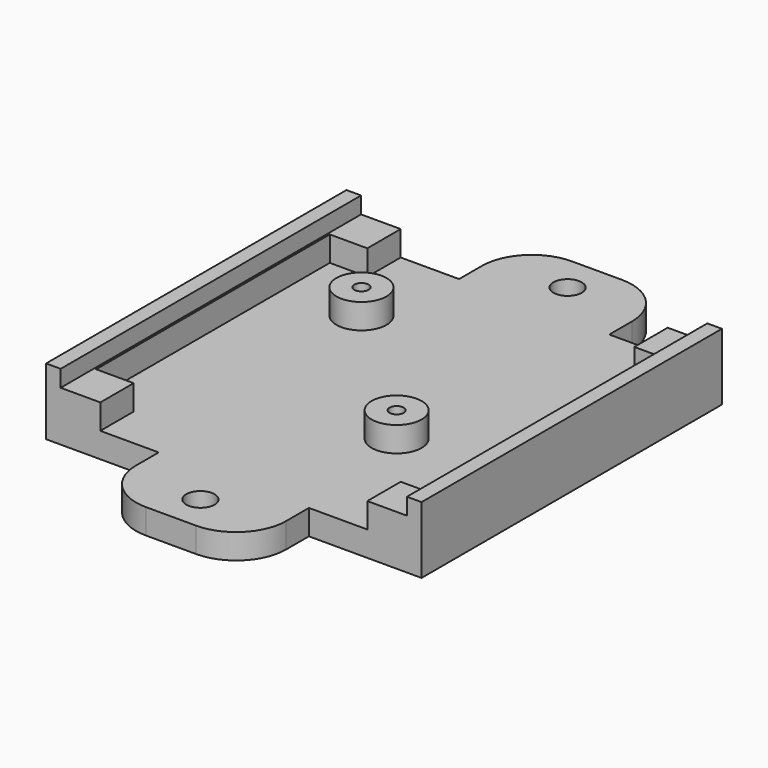
from build123d import *

# Parameters (mm, degrees)
CYLINDER026_R     = 0.85
CYLINDER026_DEPTH = 6
CYLINDER027_R     = 0.85
CYLINDER027_DEPTH = 6
CYLINDER028_R     = 3
CYLINDER028_DEPTH = 6
BOX032_W          = 41.5
BOX032_H          = 45
BOX032_DEPTH      = 10
BOX031_W          = 5
BOX031_H          = 5
BOX031_DEPTH      = 6
BOX029_W          = 5
BOX029_H          = 5
BOX029_DEPTH      = 6
BOX028_W          = 5
BOX028_H          = 5
BOX028_DEPTH      = 6
BOX030_W          = 5
BOX030_H          = 5
BOX030_DEPTH      = 6
CYLINDER030_R     = 1.7
CYLINDER030_DEPTH = 10
CYLINDER031_R     = 1.7
CYLINDER031_DEPTH = 10
BOX025_W          = 41
BOX025_H          = 45
BOX025_DEPTH      = 6
BOX026_W          = 18
BOX026_H          = 9.4
BOX026_DEPTH      = 3
BOX027_W          = 18
BOX027_H          = 9.4
BOX027_DEPTH      = 3
FILLET002_R       = 6
BOX024_W          = 45
BOX024_H          = 45
BOX024_DEPTH      = 8
CYLINDER029_R     = 3
CYLINDER029_DEPTH = 6


with BuildPart() as cylinder026:
    # Cylinder026 → Cylinder026 (new body)
    with BuildSketch(Plane(origin=(-11.5, 11, 0), x_dir=(1, 0, 0), z_dir=(0, 0, 1))):
        Circle(CYLINDER026_R)
    extrude(amount=CYLINDER026_DEPTH)


with BuildPart() as fusion001033:
    # Cylinder027 → Cylinder027 (new body)
    with BuildSketch(Plane(origin=(6.645, -6.415, 0), x_dir=(1, 0, 0), z_dir=(0, 0, 1))):
        Circle(CYLINDER027_R)
    extrude(amount=CYLINDER027_DEPTH)

    # Fusion001033: union Cylinder026
    add(cylinder026.part)


with BuildPart() as cylinder028:
    # Cylinder028 → Cylinder028 (new body)
    with BuildSketch(Plane(origin=(-11.5, 11, 0), x_dir=(1, 0, 0), z_dir=(0, 0, 1))):
        Circle(CYLINDER028_R)
    extrude(amount=CYLINDER028_DEPTH)


with BuildPart() as cube032:
    # Box032 → Box032 (new body)
    with BuildSketch(Plane(origin=(-20.75, -22.5, 6), x_dir=(1, 0, 0), z_dir=(0, 0, 1))):
        with Locations((20.75, 22.5)):
            Rectangle(BOX032_W, BOX032_H)
    extrude(amount=BOX032_DEPTH)


with BuildPart() as cube031:
    # Box031 → Box031 (new body)
    with BuildSketch(Plane(origin=(-21, 17.5, 0), x_dir=(1, 0, 0), z_dir=(0, 0, 1))):
        with Locations((2.5, 2.5)):
            Rectangle(BOX031_W, BOX031_H)
    extrude(amount=BOX031_DEPTH)


with BuildPart() as cube029:
    # Box029 → Box029 (new body)
    with BuildSketch(Plane(origin=(16, -22.5, 0), x_dir=(1, 0, 0), z_dir=(0, 0, 1))):
        with Locations((2.5, 2.5)):
            Rectangle(BOX029_W, BOX029_H)
    extrude(amount=BOX029_DEPTH)


with BuildPart() as cube028:
    # Box028 → Box028 (new body)
    with BuildSketch(Plane(origin=(-21, -22.5, 0), x_dir=(1, 0, 0), z_dir=(0, 0, 1))):
        with Locations((2.5, 2.5)):
            Rectangle(BOX028_W, BOX028_H)
    extrude(amount=BOX028_DEPTH)


with BuildPart() as fusion001030:
    # Box030 → Box030 (new body)
    with BuildSketch(Plane(origin=(16, 17.5, 0), x_dir=(1, 0, 0), z_dir=(0, 0, 1))):
        with Locations((2.5, 2.5)):
            Rectangle(BOX030_W, BOX030_H)
    extrude(amount=BOX030_DEPTH)

    # Fusion001030: union Cube031, Cube029, Cube028
    add(cube031.part)
    add(cube029.part)
    add(cube028.part)


with BuildPart() as cylinder030:
    # Cylinder030 → Cylinder030 (new body)
    with BuildSketch(Plane(origin=(0, 27.5, 0), x_dir=(1, 0, 0), z_dir=(0, 0, 1))):
        Circle(CYLINDER030_R)
    extrude(amount=CYLINDER030_DEPTH)


with BuildPart() as fusion001026:
    # Cylinder031 → Cylinder031 (new body)
    with BuildSketch(Plane(origin=(0, -27.5, 0), x_dir=(1, 0, 0), z_dir=(0, 0, 1))):
        Circle(CYLINDER031_R)
    extrude(amount=CYLINDER031_DEPTH)

    # Fusion001026: union Cylinder030
    add(cylinder030.part)


with BuildPart() as cube025:
    # Box025 → Box025 (new body)
    with BuildSketch(Plane(origin=(-20.5, -22.5, 3), x_dir=(1, 0, 0), z_dir=(0, 0, 1))):
        with Locations((20.5, 22.5)):
            Rectangle(BOX025_W, BOX025_H)
    extrude(amount=BOX025_DEPTH)


with BuildPart() as cube026:
    # Box026 → Box026 (new body)
    with BuildSketch(Plane(origin=(-9, 22.5, 0), x_dir=(1, 0, 0), z_dir=(0, 0, 1))):
        with Locations((9, 4.7)):
            Rectangle(BOX026_W, BOX026_H)
    extrude(amount=BOX026_DEPTH)


with BuildPart() as fillet002:
    # Box027 → Box027 (new body)
    with BuildSketch(Plane(origin=(-9, -31.9, 0), x_dir=(1, 0, 0), z_dir=(0, 0, 1))):
        with Locations((9, 4.7)):
            Rectangle(BOX027_W, BOX027_H)
    extrude(amount=BOX027_DEPTH)

    # Fusion001021: union Cube026
    add(cube026.part)

    # Fillet002
    fillet002_edges = [fillet002.edges().sort_by_distance(p)[0] for p in [
        (-9, -31.9, 1.5),
        (9, -31.9, 1.5),
        (-9, 31.9, 1.5),
        (9, 31.9, 1.5),
    ]]
    fillet(fillet002_edges, radius=FILLET002_R)


with BuildPart() as cut024:
    # Box024 → Box024 (new body)
    with BuildSketch(Plane(origin=(-22.5, -22.5, 0), x_dir=(1, 0, 0), z_dir=(0, 0, 1))):
        with Locations((22.5, 22.5)):
            Rectangle(BOX024_W, BOX024_H)
    extrude(amount=BOX024_DEPTH)

    # Fusion001022: union Fillet002
    add(fillet002.part)

    # Cut022: cut Cube025
    add(cube025.part, mode=Mode.SUBTRACT)

    # Cut023: cut Fusion001026
    add(fusion001026.part, mode=Mode.SUBTRACT)

    # Fusion001031: union Fusion001030
    add(fusion001030.part)

    # Cut024: cut Cube032
    add(cube032.part, mode=Mode.SUBTRACT)


with BuildPart() as cut025:
    # Cylinder029 → Cylinder029 (new body)
    with BuildSketch(Plane(origin=(6.645, -6.415, 0), x_dir=(1, 0, 0), z_dir=(0, 0, 1))):
        Circle(CYLINDER029_R)
    extrude(amount=CYLINDER029_DEPTH)

    # Fusion001032: union Cylinder028, Cut024
    add(cylinder028.part)
    add(cut024.part)

    # Cut025: cut Fusion001033
    add(fusion001033.part, mode=Mode.SUBTRACT)


solid = cut025.part
